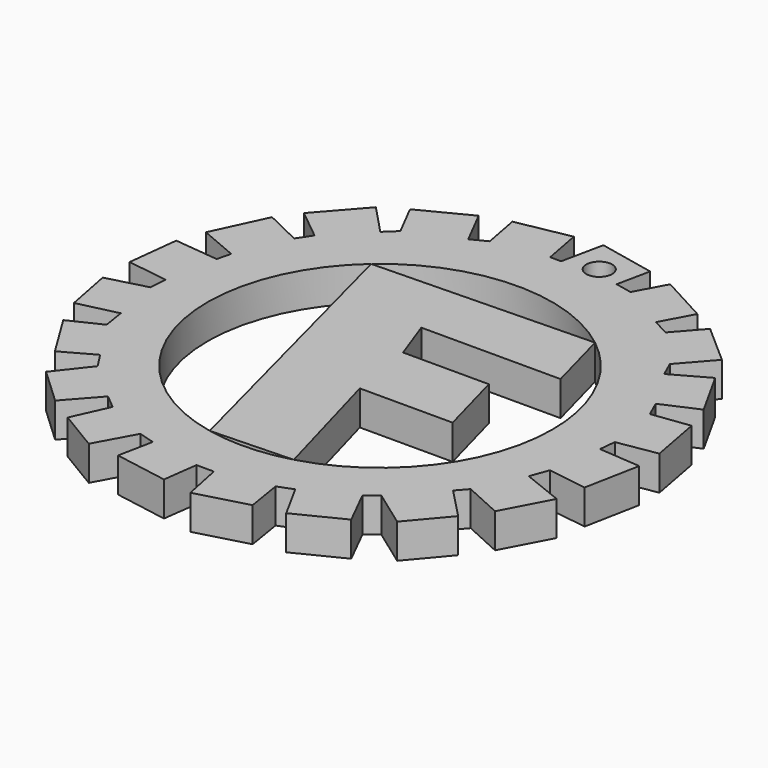
from build123d import *

# Parameters (mm, degrees)
F0_R     = 1.884031
F1_DEPTH = 5


with BuildPart() as f1:
    # F0 (on Top) → F1 (new body)
    with BuildSketch(Plane.XY):
        Polygon((-20.51856, 25.711885), (-24.687123, 30.11865), (-30.163238, 23.898786), (-25.783919, 20.361641), (-27.131403, 18.340418), (-32.352898, 20.866947), (-35.890043, 13.287356), (-30.331675, 10.929262), (-30.836981, 8.908037), (-37.237525, 9.581779), (-38.079701, 2.170623), (-32.184463, 1.328446), (-32.352898, -1.198084), (-38.079701, -2.714003), (-36.732219, -9.619853), (-31.005416, -8.27237), (-30.50011, -11.472641), (-35.047863, -13.662302), (-31.005416, -20.23128), (-26.45766, -17.704749), (-24.941742, -20.062845), (-28.64732, -24.779037), (-23.425825, -29.663661), (-19.383375, -25.115907), (-17.362151, -26.80026), (-19.720247, -32.021757), (-13.825009, -35.558902), (-10.793171, -30.000534), (-8.435077, -30.674273), (-9.445689, -35.727333), (-1.697662, -37.074819), (-1.023921, -32.021757), (1.502609, -32.021757), (2.681657, -37.74856), (10.092814, -35.727333), (9.250638, -30.50584), (11.440297, -29.663661), (14.303697, -34.885157), (21.041114, -31.516451), (18.346146, -26.126519), (20.030502, -24.779037), (25.420433, -28.65305), (29.968187, -23.263117), (25.588868, -18.715363), (26.93635, -17.199444), (32.494716, -19.725975), (36.05479, -12.996196), (30.099701, -10.61416), (31.052515, -7.993922), (36.769401, -8.827634), (38.317725, -0.847814), (32.243535, -0.371407), (32.481737, 2.010629), (38.19862, 2.963443), (36.769401, 10.585957), (31.290721, 9.871347), (30.218804, 12.253382), (35.373972, 14.535178), (31.528924, 21.424221), (26.407547, 18.565778), (25.385937, 20.87495), (29.345841, 25.374953), (23.5491, 30.475957), (20.154166, 26.617981), (17.729516, 27.931154), (20.15901, 32.416985), (13.187246, 36.192842), (10.85917, 31.894267), (8.429056, 32.405401), (9.444303, 37.23225), (1.277068, 38.950091), (0, 32.878451), (-1.592271, 32.878451), (-2.653307, 38.490271), (-10.394908, 37.026554), (-9.380095, 31.659206), (-11.596938, 30.522174), (-14.287113, 35.767142), (-21.352272, 32.14338), (-18.858804, 27.281925), align=None)
        with BuildLine():
            ThreePointArc((15.478202, 19.681548), (22.522129, 10.940373), (25.038732, 0))
            ThreePointArc((25.038732, 0), (19.957626, -15.120557), (6.776526, -24.104289))
            ThreePointArc((6.776526, -24.104289), (0.853488, -25.024181), (-5.118462, -24.509986))
            ThreePointArc((-5.118462, -24.509986), (-24.232658, -6.302094), (-16.41078, 18.910959))
            ThreePointArc((-16.41078, 18.910959), (-0.604878, 25.031424), (15.478202, 19.681548))
        make_face(mode=Mode.SUBTRACT)
        with Locations((4.598969, 34.043554)):
            Circle(F0_R, mode=Mode.SUBTRACT)
        Polygon((18.009275, 10.25552), (15.478202, 19.681548), (-16.41078, 18.910959), (-5.118462, -24.509986), (6.776526, -24.104289), (1.671045, -5.745839), (15.145875, -5.745839), (12.450909, 4.191847), (0, 4.191847), (-2.202968, 10.25552), align=None)
    extrude(amount=F1_DEPTH)


solid = f1.part
